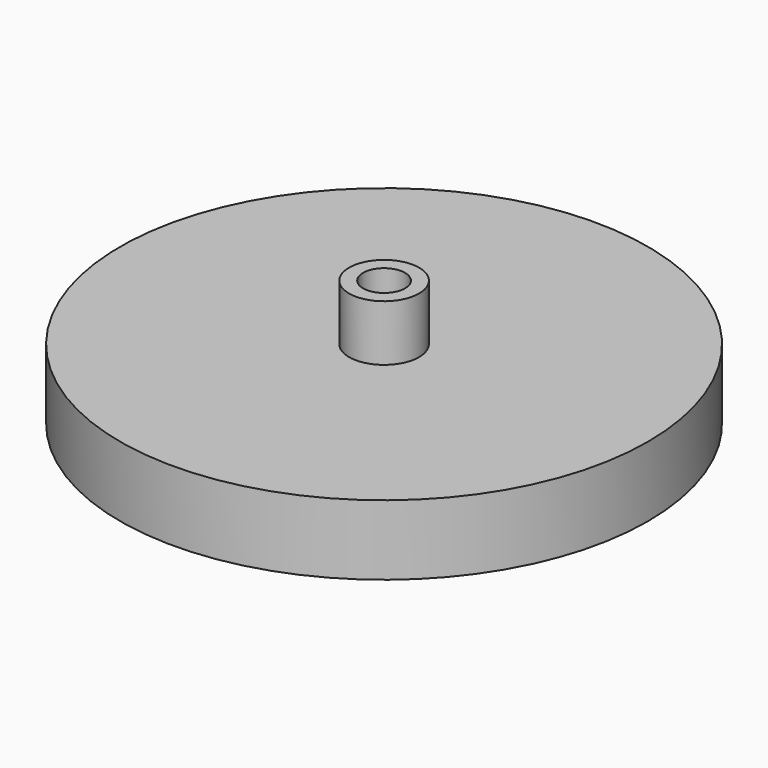
from build123d import *

# Parameters (mm, degrees)
F0_R     = 18.85
F0_R_2   = 2.5
F0_R_3   = 1.5
F1_DEPTH = 5
F2_DEPTH = 9
F3_DEPTH = 3


with BuildPart() as f1:
    # F0 (on Top) → F1 (new body)
    with BuildSketch(Plane.XY):
        Circle(F0_R)
        Circle(F0_R_2, mode=Mode.SUBTRACT)
        Circle(F0_R_2)
        Circle(F0_R_3, mode=Mode.SUBTRACT)
    extrude(amount=F1_DEPTH)

    # F0 (on Top) → F2 (join)
    with BuildSketch(Plane.XY):
        Circle(F0_R_2)
        Circle(F0_R_3, mode=Mode.SUBTRACT)
    extrude(amount=F2_DEPTH)

    # F0 (on Top) → F3 (join)
    with BuildSketch(Plane.XY):
        Circle(F0_R)
        Circle(F0_R_2, mode=Mode.SUBTRACT)
        Circle(F0_R_3)
    extrude(amount=F3_DEPTH)


solid = f1.part
